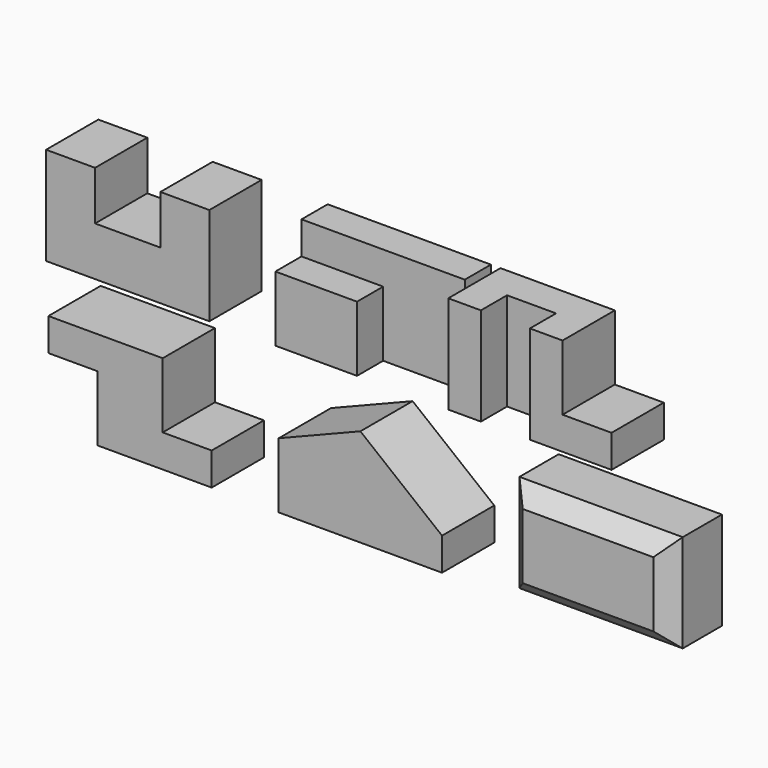
from build123d import *

# Parameters (mm, degrees)
F1_DEPTH  = 101.6
F3_DEPTH  = 152.4
F4_W      = 127
F4_H      = 50.8
F5_DEPTH  = 50.8
F7_DEPTH  = 152.4
F8_W      = 76.2
F8_H      = 101.6
F9_DEPTH  = 101.6
F11_DEPTH = 101.6
F13_DEPTH = 101.6
F14_W     = 254
F14_H     = 152.4
F15_DEPTH = 101.6
F16_SIZE  = 25.4
F17_SIZE  = 25.4
F18_SIZE  = 25.4


with BuildPart() as f1:
    # F0 (on Front) → F1 (new body)
    with BuildSketch(Plane.XZ):
        Polygon((-127, 0), (0, 0), (127, 0), (127, 152.4), (50.8, 152.4), (50.8, 76.2), (-50.8, 76.2), (-50.8, 152.4), (-127, 152.4), align=None)
    extrude(amount=F1_DEPTH)


with BuildPart() as f3:
    # F2 (on Top) → F3 (new body)
    with BuildSketch(Plane.XY):
        Polygon((483.709025, 0), (229.709025, 0), (229.709025, -101.6), (356.709025, -101.6), (356.709025, -50.8), (483.709025, -50.8), align=None)
    extrude(amount=F3_DEPTH)

    # F4 (on face) → F5 (cut)
    with BuildSketch(Plane.XZ.offset(101.6)):
        with Locations((293.209025, 127)):
            Rectangle(F4_W, F4_H)
    extrude(amount=-F5_DEPTH, mode=Mode.SUBTRACT)


with BuildPart() as f7:
    # F6 (on Top) → F7 (new body)
    with BuildSketch(Plane.XY):
        Polygon((498.641468, 0), (498.641468, -101.6), (549.441468, -101.6), (549.441468, -50.8), (625.641468, -50.8), (625.641468, -101.6), (752.641468, -101.6), (752.641468, 0), align=None)
    extrude(amount=F7_DEPTH)

    # F8 (on face) → F9 (cut)
    with BuildSketch(Plane.XY.offset(152.4)):
        with Locations((714.541468, -50.8)):
            Rectangle(F8_W, F8_H)
    extrude(amount=-F9_DEPTH, mode=Mode.SUBTRACT)


with BuildPart() as f11:
    # F10 (on Front) → F11 (new body)
    with BuildSketch(Plane.XZ):
        Polygon((54.409603, -74.1554), (-123.390397, -74.1554), (-123.390397, -124.9554), (-47.190397, -124.9554), (-47.190397, -226.5554), (130.609603, -226.5554), (130.609603, -175.7554), (54.409603, -175.7554), align=None)
    extrude(amount=F11_DEPTH)


with BuildPart() as f13:
    # F12 (on Front) → F13 (new body)
    with BuildSketch(Plane.XZ):
        Polygon((234.940886, -125.012732), (234.940886, -226.612732), (361.940886, -226.612732), (488.940886, -226.612732), (488.940886, -175.812732), (361.940886, -74.212732), align=None)
    extrude(amount=F13_DEPTH)


with BuildPart() as f15:
    # F14 (on Front) → F15 (new body)
    with BuildSketch(Plane.XZ):
        with Locations((716.0807, -149.239757)):
            Rectangle(F14_W, F14_H)
    extrude(amount=F15_DEPTH)

    # F16
    f16_edges = [f15.edges().sort_by_distance(p)[0] for p in [
        (716.0807, -101.6, -73.039757),
    ]]
    chamfer(f16_edges, length=F16_SIZE)

    # F17
    f17_edges = [f15.edges().sort_by_distance(p)[0] for p in [
        (843.0807, -101.6, -161.939757),
        (716.0807, -101.6, -225.439757),
    ]]
    chamfer(f17_edges, length=F17_SIZE)

    # F18
    f18_edges = [f15.edges().sort_by_distance(p)[0] for p in [
        (589.0807, -101.6, -149.239757),
    ]]
    chamfer(f18_edges, length=F18_SIZE)


solid = Compound([f1.part, f3.part, f7.part, f11.part, f13.part, f15.part])
